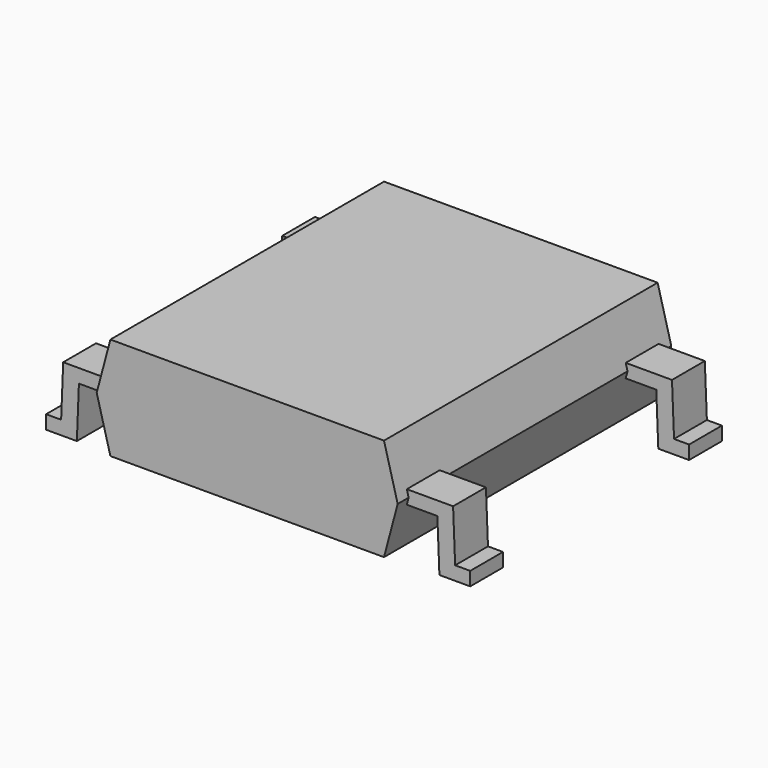
from build123d import *

# Parameters (mm, degrees)
PAD_DEPTH    = 2.5
PAD002_DEPTH = 0.3
PAD001_DEPTH = 0.3


with BuildPart() as pad:
    # Sketch → Pad (new body, symmetric)
    with BuildSketch(Plane.XZ):
        Polygon((-2, 0.1), (2, 0.1), (2.2, 0.85), (2, 1.6), (-2, 1.6), (-2.2, 0.85), align=None)
    extrude(amount=PAD_DEPTH, both=True)


with BuildPart() as pad002:
    # Sketch002 → Pad002 (new body, symmetric)
    with BuildSketch(Plane.XZ.offset(2)):
        Polygon((-3.1, 0), (-2.65, 0), (-2.62, 0.75), (2.62, 0.75), (2.65, 0), (3.1, 0), (3.1, 0.2), (2.88, 0.2), (2.85, 0.95), (-2.85, 0.95), (-2.88, 0.2), (-3.1, 0.2), align=None)
    extrude(amount=PAD002_DEPTH, both=True)


with BuildPart() as obj1:
    # Sketch001 → Pad001 (new body, symmetric)
    with BuildSketch(Plane.XZ.offset(-2)):
        Polygon((-3.1, 0), (-2.65, 0), (-2.62, 0.75), (2.62, 0.75), (2.65, 0), (3.1, 0), (3.1, 0.2), (2.88, 0.2), (2.85, 0.95), (-2.85, 0.95), (-2.88, 0.2), (-3.1, 0.2), align=None)
    extrude(amount=PAD001_DEPTH, both=True)

    add(pad.part)
    add(pad002.part)


solid = obj1.part
